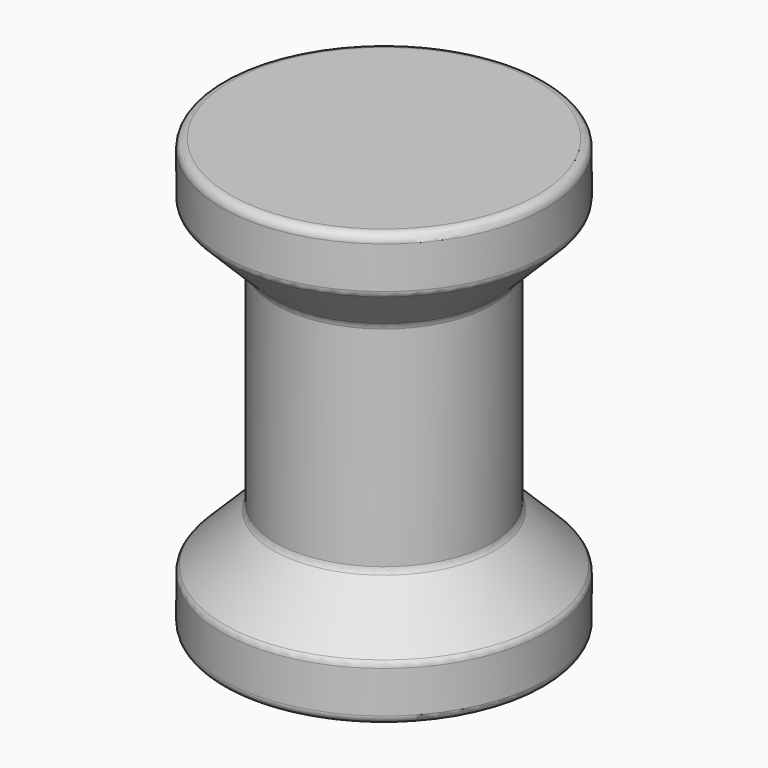
from build123d import *

# Parameters (mm, degrees)
F2_R = 0.254


with BuildPart() as f1:
    # F0 (on Front) → F1 (revolve)
    with BuildSketch(Plane.XZ):
        Polygon((4.7625, 12.7), (0, 12.7), (0, 1.5875), (3.175, 1.5875), (3.175, 0), (4.7625, 0), (4.7625, 1.5875), (3.175, 3.175), (3.175, 9.525), (4.7625, 11.1125), align=None)
    revolve(axis=Axis((0, 0, 6.35), (0, 0, 1)))

    # F2
    f2_edges = [f1.edges().sort_by_distance(p)[0] for p in [
        (-3.175, 0, 0),
        (-4.7625, 0, 0),
        (-4.7625, 0, 1.5875),
        (-3.175, 0, 3.175),
        (-3.175, 0, 9.525),
        (-4.7625, 0, 11.1125),
        (-4.7625, 0, 12.7),
    ]]
    fillet(f2_edges, radius=F2_R)


solid = f1.part
